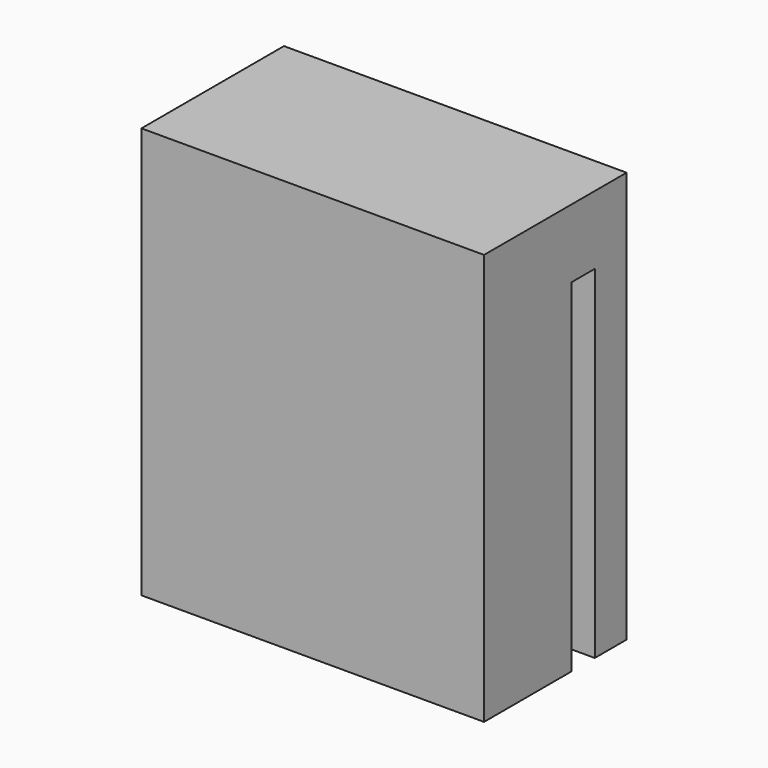
from build123d import *

# Parameters (mm, degrees)
F0_W     = 25
F0_H     = 30
F1_DEPTH = 6.5
F2_W     = 25
F2_H     = 2.1
F3_DEPTH = 25


with BuildPart() as f1:
    # F0 (on Front) → F1 (new body, symmetric)
    with BuildSketch(Plane.XZ):
        Rectangle(F0_W, F0_H)
    extrude(amount=F1_DEPTH, both=True)

    # F2 (on face) → F3 (cut)
    with BuildSketch(Plane(origin=(0, 0, -15), x_dir=(1, 0, 0), z_dir=(0, 0, -1))):
        with Locations((0, -2.55)):
            Rectangle(F2_W, F2_H)
    extrude(amount=-F3_DEPTH, mode=Mode.SUBTRACT)


solid = f1.part
